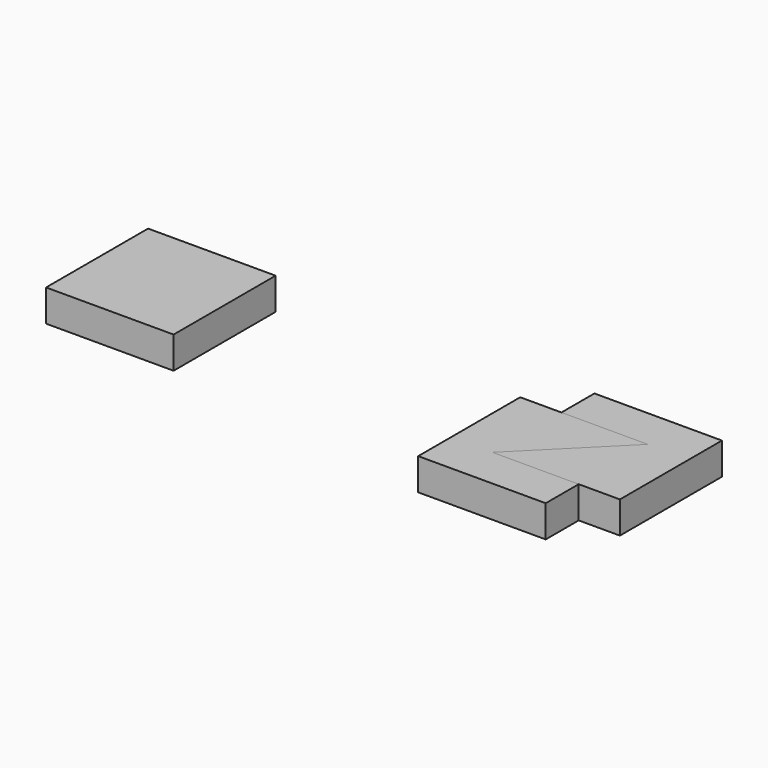
from build123d import *

# Parameters (mm, degrees)
F1_DEPTH = 5
F2_DEPTH = 5
F0_W     = 20
F0_H     = 20
F3_DEPTH = 5


with BuildPart() as f1:
    # F0 (on Top) → F1 (new body)
    with BuildSketch(Plane.XY):
        Polygon((-10, -10), (10, -10), (10, -3.535534), (-3.535534, -3.535534), (-3.535534, 10), (-10, 10), align=None)
        Polygon((-3.535534, -3.535534), (10, 10), (-3.535534, 10), align=None)
    extrude(amount=F1_DEPTH)


with BuildPart() as f2:
    # F0 (on Top) → F2 (new body)
    with BuildSketch(Plane.XY):
        Polygon((-3.535534, -3.535534), (10, -3.535534), (10, 10), align=None)
        Polygon((10, 10), (10, -3.535534), (16.464466, -3.535534), (16.464466, 16.464466), (-3.535534, 16.464466), (-3.535534, 10), align=None)
    extrude(amount=F2_DEPTH)


with BuildPart() as f3:
    # F0 (on Top) → F3 (new body)
    with BuildSketch(Plane.XY):
        with Locations((-63.535534, 6.464466)):
            Rectangle(F0_W, F0_H)
    extrude(amount=F3_DEPTH)


solid = Compound([f1.part, f2.part, f3.part])
